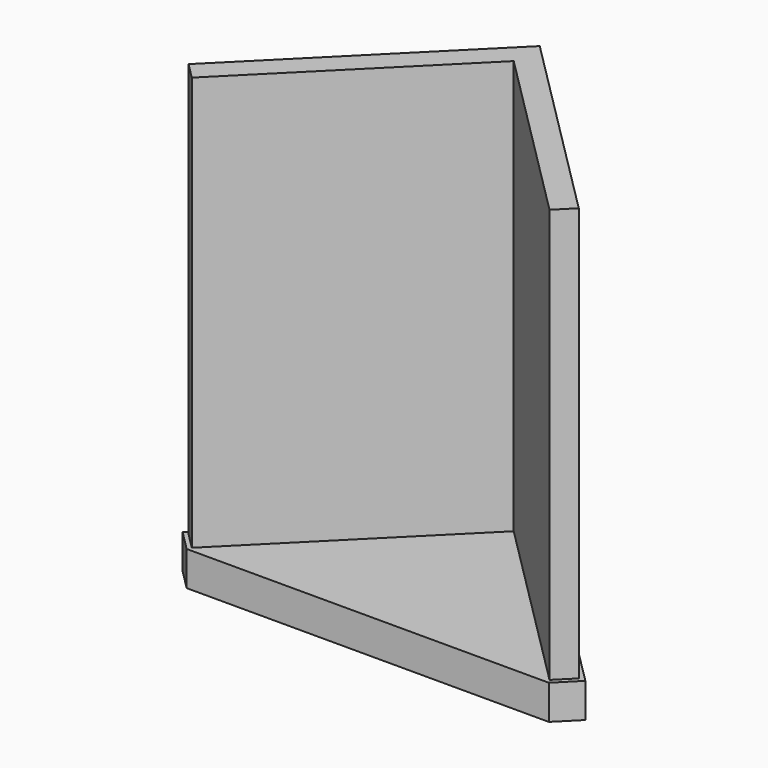
from build123d import *

# Parameters (mm, degrees)
F1_DEPTH = 457.2
F3_DEPTH = 38.1


with BuildPart() as f1:
    # F0 (on Top) → F1 (new body)
    with BuildSketch(Plane.XY):
        Polygon((215.526147, 0), (0, 215.526147), (-215.526147, 0), (-197.565635, -17.960512), (0, 179.605122), (197.565635, -17.960512), align=None)
    extrude(amount=F1_DEPTH)


with BuildPart() as f3:
    # F2 (on Top) → F3 (new body)
    with BuildSketch(Plane.XY):
        Polygon((0, 222.455655), (-222.066853, 0), (-199.635858, -22.470268), (200.414142, -22.470268), (222.845137, 0), align=None)
    extrude(amount=-F3_DEPTH)


solid = Compound([f1.part, f3.part])
